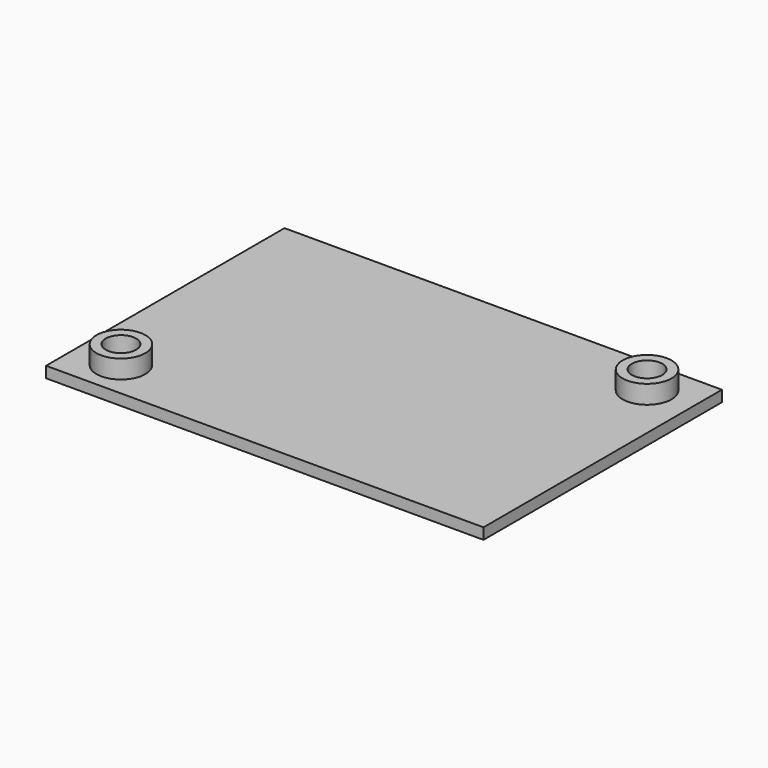
from build123d import *

# Parameters (mm, degrees)
F8_W      = 60.2088514067
F8_H      = 41.021
F9_DEPTH  = 1.524
F6_R      = 3.3655
F6_R_2    = 2.0955
F7_R      = 3.3655
F7_R_2    = 2.0955
F10_DEPTH = 4.064
F11_DEPTH = 25.4


with BuildPart() as f9:
    # F8 (on Top) → F9 (new body)
    with BuildSketch(Plane.XY):
        Rectangle(F8_W, F8_H)
    extrude(amount=F9_DEPTH)

    # F6 (on face) + F7 (on face) → F10 (join)
    with BuildSketch(Plane.XY):
        with Locations((-23.9141, -15.367)):
            Circle(F6_R)
        with Locations((-23.9141, -15.367)):
            Circle(F6_R_2, mode=Mode.SUBTRACT)
    with BuildSketch(Plane.XY):
        with Locations((23.9141, 15.367)):
            Circle(F7_R)
        with Locations((23.9141, 15.367)):
            Circle(F7_R_2, mode=Mode.SUBTRACT)
    extrude(amount=F10_DEPTH)

    # F11 (cut): faces of the model
    f11_faces = [f9.faces().sort_by_distance(p)[0] for p in [
        (-23.9141, -15.367, 1.524),
        (23.9141, 15.367, 1.524),
    ]]
    extrude(f11_faces, amount=-F11_DEPTH, mode=Mode.SUBTRACT)


solid = f9.part
